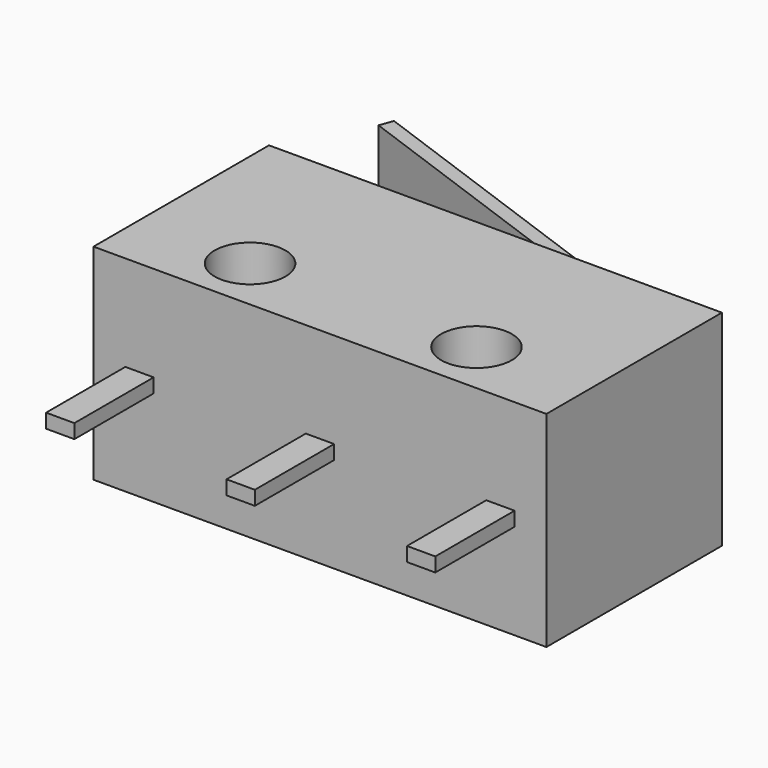
from build123d import *

# Parameters (mm, degrees)
SKETCH_W     = 12.8
SKETCH_H     = 6.2
PAD_DEPTH    = 2.9
SKETCH001_W  = 0.8
SKETCH001_H  = 0.4
PAD001_DEPTH = 2.8
PAD002_DEPTH = 1.825
SKETCH003_R  = 1
POCKET_DEPTH = 5.801


with BuildPart() as part:
    # Sketch → Pad (new body, symmetric)
    with BuildSketch(Plane.XY):
        Rectangle(SKETCH_W, SKETCH_H)
    extrude(amount=PAD_DEPTH, both=True)

    # Sketch001 (on Face3 of Pad) → Pad001 (join)
    with BuildSketch(Plane.XZ.offset(3.1)):
        with Locations((-5.1, 0)):
            Rectangle(SKETCH001_W, SKETCH001_H)
        Rectangle(SKETCH001_W, SKETCH001_H)
        with Locations((5.1, 0)):
            Rectangle(SKETCH001_W, SKETCH001_H)
    extrude(amount=PAD001_DEPTH)

    # Sketch002 → Pad002 (join, symmetric)
    with BuildSketch(Plane.XY):
        Polygon((4.230478, 3.1), (-6.4, 6.969178), (-6.263192, 7.345055), (5.4, 3.1), align=None)
    extrude(amount=PAD002_DEPTH, both=True)

    # Sketch003 (on Face4 of Pad002) → Pocket (cut, through all)
    with BuildSketch(Plane.XY.offset(2.9)):
        with Locations((-3.2, -1.57)):
            Circle(SKETCH003_R)
        with Locations((3.2, -1.57)):
            Circle(SKETCH003_R)
    extrude(amount=-POCKET_DEPTH, mode=Mode.SUBTRACT)


solid = part.part
